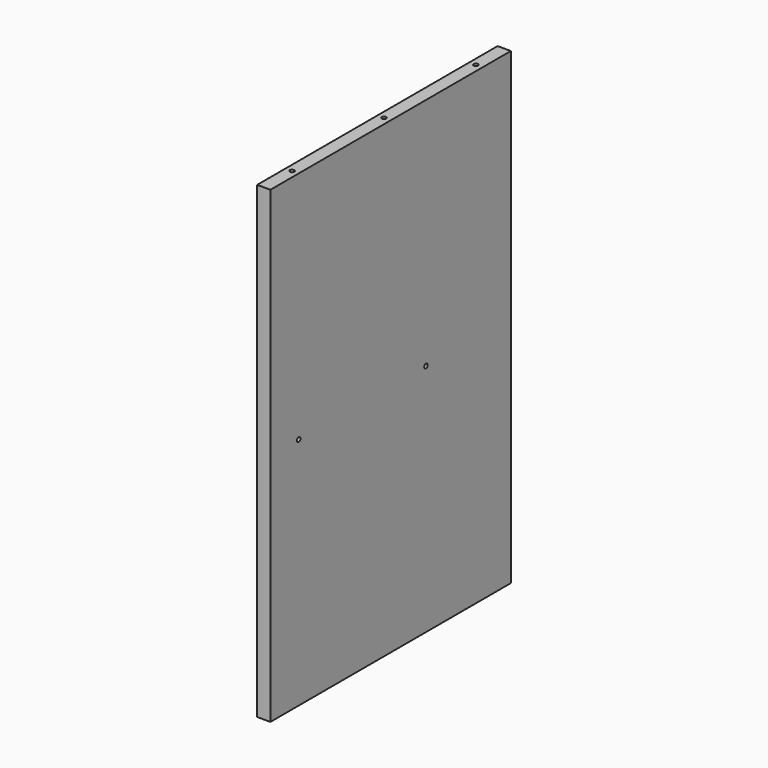
from build123d import *

# Parameters (mm, degrees)
F0_W     = 19.05
F0_H     = 431.8
F1_DEPTH = 673.1
F2_R     = 3.175
F3_DEPTH = 9.525
F4_R     = 3.175
F5_DEPTH = 9.525
F6_R     = 3.175
F7_DEPTH = 6.35


with BuildPart() as f1:
    # F0 (on Top) → F1 (new body)
    with BuildSketch(Plane.XY):
        with Locations((9.525, 215.9)):
            Rectangle(F0_W, F0_H)
    extrude(amount=F1_DEPTH)

    # F2 (on face) → F3 (cut)
    with BuildSketch(Plane(origin=(0, 0, 0), x_dir=(1, 0, 0), z_dir=(0, 0, -1))):
        with Locations((9.525, -50.8)):
            Circle(F2_R)
        with Locations((9.525, -215.9)):
            Circle(F2_R)
        with Locations((9.525, -381)):
            Circle(F2_R)
    extrude(amount=-F3_DEPTH, mode=Mode.SUBTRACT)

    # F4 (on face) → F5 (cut)
    with BuildSketch(Plane.XY.offset(673.1)):
        with Locations((9.525, 381)):
            Circle(F4_R)
        with Locations((9.525, 215.9)):
            Circle(F4_R)
        with Locations((9.525, 50.8)):
            Circle(F4_R)
    extrude(amount=-F5_DEPTH, mode=Mode.SUBTRACT)

    # F6 (on face) → F7 (cut)
    with BuildSketch(Plane.YZ.offset(19.05)):
        with Locations((50.8, 336.55)):
            Circle(F6_R)
        with Locations((279.4, 336.55)):
            Circle(F6_R)
    extrude(amount=-F7_DEPTH, mode=Mode.SUBTRACT)


solid = f1.part
